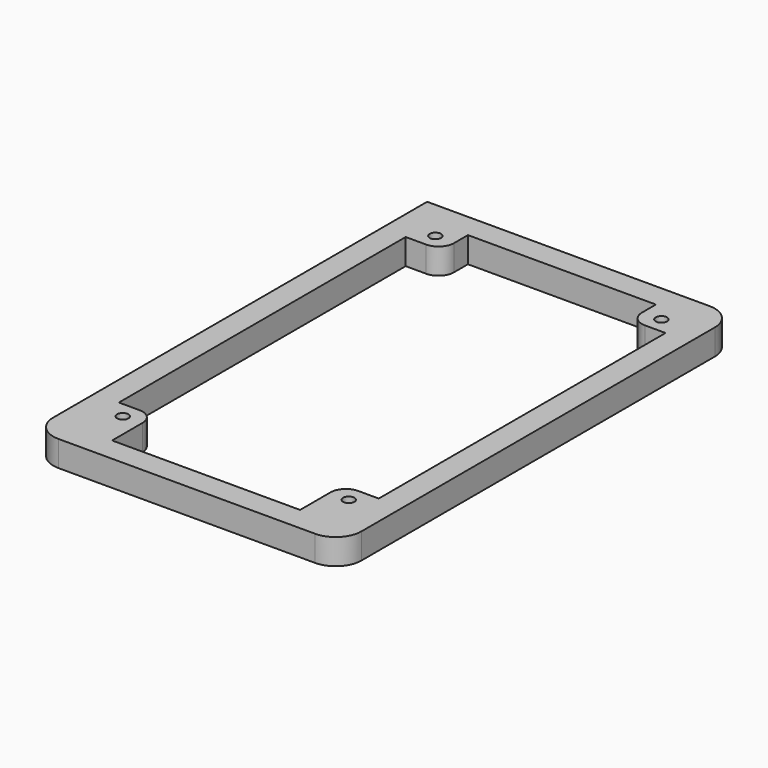
from build123d import *

# Parameters (mm, degrees)
F0_R     = 1.5
F1_DEPTH = 15
F2_W     = 50.6
F2_H     = 86.6
F2_R     = 1.5
F3_DEPTH = 22
F4_R     = 1.1
F5_DEPTH = 5
F6_W     = 105.847951
F6_H     = 180.898867
F7_DEPTH = 10


with BuildPart() as f1:
    # F0 (on Top) → F1 (new body)
    with BuildSketch(Plane.XY):
        with BuildLine():
            Line((-25, -48), (25, -48))
            ThreePointArc((25, -48), (28.535534, -46.535534), (30, -43))
            Line((30, -43), (30, 43))
            ThreePointArc((30, 43), (28.535534, 46.535534), (25, 48))
            Line((25, 48), (-27, 48))
            Line((-27, 48), (-30, 48))
            Line((-30, 48), (-30, 43))
            Line((-30, 43), (-30, -43))
            ThreePointArc((-30, -43), (-28.535534, -46.535534), (-25, -48))
        make_face()
        with Locations((-22, -36.08)):
            Circle(F0_R, mode=Mode.SUBTRACT)
        with Locations((22, -36.08)):
            Circle(F0_R, mode=Mode.SUBTRACT)
        with Locations((-22, 40)):
            Circle(F0_R, mode=Mode.SUBTRACT)
        with Locations((22, 40)):
            Circle(F0_R, mode=Mode.SUBTRACT)
    extrude(amount=F1_DEPTH)

    # F2 (on face) → F3 (cut)
    with BuildSketch(Plane.XY.offset(15)):
        Rectangle(F2_W, F2_H)
        with Locations((-22, -36.08)):
            Circle(F2_R, mode=Mode.SUBTRACT)
        with Locations((22, -36.08)):
            Circle(F2_R, mode=Mode.SUBTRACT)
        with Locations((-22, 40)):
            Circle(F2_R, mode=Mode.SUBTRACT)
        with Locations((22, 40)):
            Circle(F2_R, mode=Mode.SUBTRACT)
    extrude(amount=-F3_DEPTH, mode=Mode.SUBTRACT)

    # F4 (on face) → F5 (join)
    with BuildSketch(Plane.XY.offset(15)):
        with BuildLine():
            Line((-18.3, 43.3), (-25.3, 43.3))
            Line((-25.3, 43.3), (-25.3, 36.9))
            Line((-25.3, 36.9), (-21.3, 36.9))
            ThreePointArc((-21.3, 36.9), (-19.17868, 37.77868), (-18.3, 39.9))
            Line((-18.3, 39.9), (-18.3, 43.3))
        make_face()
        with Locations((-22, 40)):
            Circle(F4_R, mode=Mode.SUBTRACT)
        with BuildLine():
            Line((25.3, 36.9), (25.3, 43.3))
            Line((25.3, 43.3), (18.3, 43.3))
            Line((18.3, 43.3), (18.3, 39.9))
            ThreePointArc((18.3, 39.9), (19.17868, 37.77868), (21.3, 36.9))
            Line((21.3, 36.9), (25.3, 36.9))
        make_face()
        with Locations((22, 40)):
            Circle(F4_R, mode=Mode.SUBTRACT)
        with BuildLine():
            Line((18.3, -43.3), (25.3, -43.3))
            Line((25.3, -43.3), (25.3, -32.9))
            Line((25.3, -32.9), (21.3, -32.9))
            ThreePointArc((21.3, -32.9), (19.17868, -33.77868), (18.3, -35.9))
            Line((18.3, -35.9), (18.3, -43.3))
        make_face()
        with Locations((22, -36.08)):
            Circle(F4_R, mode=Mode.SUBTRACT)
        with BuildLine():
            Line((-25.3, -32.9), (-25.3, -43.3))
            Line((-25.3, -43.3), (-18.3, -43.3))
            Line((-18.3, -43.3), (-18.3, -35.9))
            ThreePointArc((-18.3, -35.9), (-19.17868, -33.77868), (-21.3, -32.9))
            Line((-21.3, -32.9), (-25.3, -32.9))
        make_face()
        with Locations((-22, -36.08)):
            Circle(F4_R, mode=Mode.SUBTRACT)
    extrude(amount=-F5_DEPTH)

    # F6 (on face) → F7 (cut)
    with BuildSketch(Plane(origin=(0, 0, 0), x_dir=(1, 0, 0), z_dir=(0, 0, -1))):
        with Locations((-5.788153, -4.893799)):
            Rectangle(F6_W, F6_H)
    extrude(amount=-F7_DEPTH, mode=Mode.SUBTRACT)


solid = f1.part
